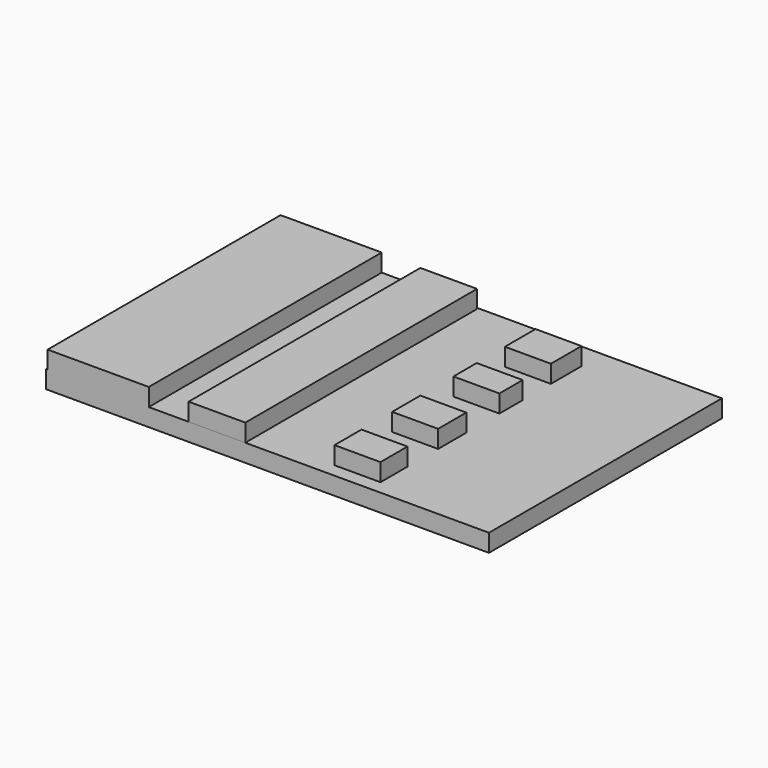
from build123d import *

# Parameters (mm, degrees)
F0_W     = 127.015032
F0_H     = 83.504692
F2_DEPTH = 5.08
F1_W     = 29.006893
F1_H     = 83.504688
F1_W_2   = 16.261436
F1_H_2   = 83.065193
F1_W_3   = 13.184948
F1_H_3   = 10.987461
F1_H_4   = 8.350468
F1_H_5   = 10.108461
F1_H_6   = 9.668963
F3_DEPTH = 5.08


with BuildPart() as f2:
    # F0 (on Top) → F2 (new body)
    with BuildSketch(Plane.XY):
        with Locations((6.372731, -1.098748)):
            Rectangle(F0_W, F0_H)
    extrude(amount=-F2_DEPTH)

    # F1 (on face) → F3 (join)
    with BuildSketch(Plane.XY):
        with Locations((-42.19184, -1.09875)):
            Rectangle(F1_W, F1_H)
        with Locations((-8.130718, -1.318497)):
            Rectangle(F1_W_2, F1_H_2)
        with Locations((29.006896, 27.688395)):
            Rectangle(F1_W_3, F1_H_3)
        with Locations((29.006896, 7.910967)):
            Rectangle(F1_W_3, F1_H_4)
        with Locations((29.006896, -13.184954)):
            Rectangle(F1_W_3, F1_H_5)
        with Locations((29.006896, -34.061126)):
            Rectangle(F1_W_3, F1_H_6)
    extrude(amount=F3_DEPTH)


solid = f2.part
